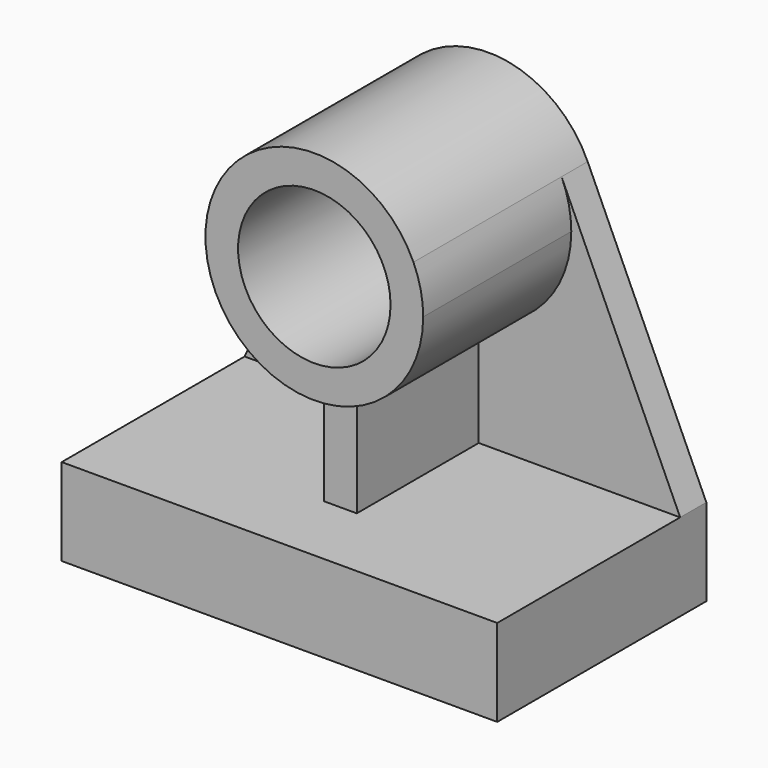
from build123d import *

# Parameters (mm, degrees)
F1_DEPTH      = 19.05
F2_W          = 254
F2_H          = 50.8
F3_DEPTH      = 133.35
F5_R          = 44.45
F6_DEPTH      = 19.051
F7_DEPTH      = 107.95
F8_DEPTH      = 133.351
F8_DEPTH_BACK = 19.051
F10_DEPTH     = 88.9


with BuildPart() as f1:
    # F0 (on Front) → F1 (new body)
    with BuildSketch(Plane.XZ):
        with BuildLine():
            Line((0, 50.8), (0, 0))
            Line((0, 0), (254, 0))
            Line((254, 0), (254, 50.8))
            Line((254, 50.8), (184.82177, 203.2))
            ThreePointArc((184.82177, 203.2), (127, 240.45323), (69.17823, 203.2))
            Line((69.17823, 203.2), (0, 50.8))
        make_face()
    extrude(amount=F1_DEPTH)

    # F2 (on face) → F3 (join)
    with BuildSketch(Plane.XZ.offset(19.05)):
        with Locations((127, 25.4)):
            Rectangle(F2_W, F2_H)
    extrude(amount=F3_DEPTH)

    # F5 (on face) → F6 (cut, through all)
    with BuildSketch(Plane.XZ.offset(19.05)):
        with Locations((127, 176.95323)):
            Circle(F5_R)
    extrude(amount=-F6_DEPTH, mode=Mode.SUBTRACT)

    # F4 (on face) → F7 (join)
    with BuildSketch(Plane.XZ.offset(19.05)):
        with BuildLine():
            ThreePointArc((69.17823, 203.2), (113.57302, 114.88902), (190.5, 176.95323))
            ThreePointArc((190.5, 176.95323), (189.06421, 190.380211), (184.82177, 203.2))
            ThreePointArc((184.82177, 203.2), (127, 240.45323), (69.17823, 203.2))
        make_face()
    extrude(amount=F7_DEPTH)

    # F5 (on face) → F8 (cut, two sides)
    with BuildSketch(Plane.XZ.offset(19.05)) as f8_sk:
        with Locations((127, 176.95323)):
            Circle(F5_R)
    extrude(amount=F8_DEPTH, mode=Mode.SUBTRACT)
    extrude(f8_sk.sketch, amount=-F8_DEPTH_BACK, mode=Mode.SUBTRACT)

    # F9 (on face) → F10 (join)
    with BuildSketch(Plane.XZ.offset(19.05)):
        with BuildLine():
            Line((117.475, 114.17167), (117.475, 50.8))
            Line((117.475, 50.8), (136.525, 50.8))
            Line((136.525, 50.8), (136.525, 114.17167))
            ThreePointArc((136.525, 114.17167), (127, 113.45323), (117.475, 114.17167))
        make_face()
    extrude(amount=F10_DEPTH)


solid = f1.part
